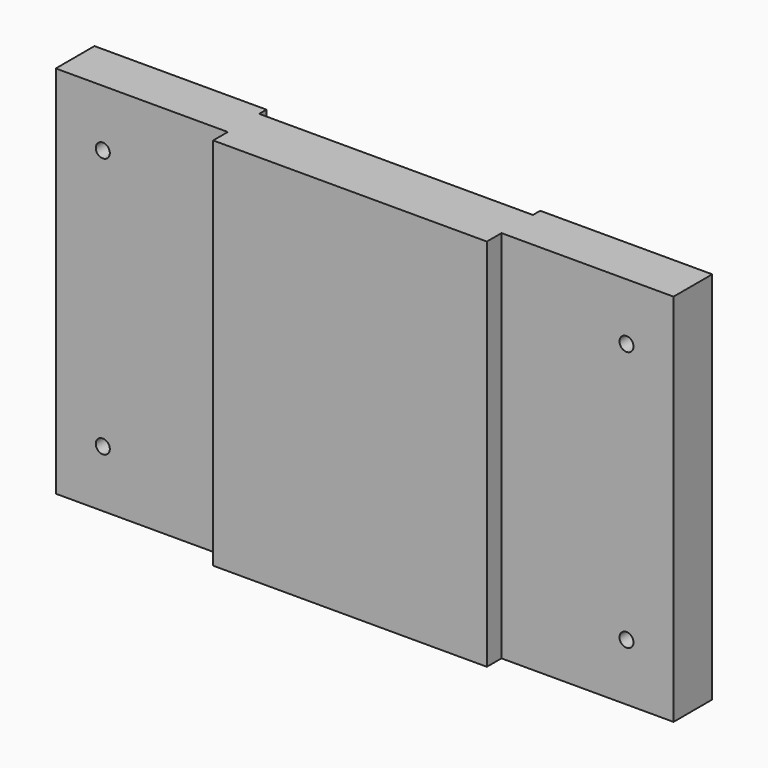
from build123d import *

# Parameters (mm, degrees)
F0_W     = 3472.434
F0_H     = 2104.39
F1_DEPTH = 272.034
F2_W     = 1538.478
F2_H     = 2104.39
F3_DEPTH = 102.87
F4_W     = 1538.478
F4_H     = 51.308
F5_DEPTH = 2104.391
F6_R     = 39.37
F7_DEPTH = 272.035


with BuildPart() as f1:
    # F0 (on Front) → F1 (new body)
    with BuildSketch(Plane.XZ):
        with Locations((15.690273, 116.796543)):
            Rectangle(F0_W, F0_H)
    extrude(amount=F1_DEPTH)

    # F2 (on face) → F3 (join)
    with BuildSketch(Plane.XZ.offset(272.034)):
        with Locations((15.690273, 116.796543)):
            Rectangle(F2_W, F2_H)
    extrude(amount=F3_DEPTH)

    # F4 (on face) → F5 (cut, through all)
    with BuildSketch(Plane.XY.offset(1168.991543)):
        with Locations((15.690273, -25.654)):
            Rectangle(F4_W, F4_H)
    extrude(amount=-F5_DEPTH, mode=Mode.SUBTRACT)

    # F6 (on face) → F7 (cut, through all)
    with BuildSketch(Plane.XZ.offset(272.034)):
        with Locations((-1456.112727, 848.951543)):
            Circle(F6_R)
        with Locations((-1456.112727, -615.358457)):
            Circle(F6_R)
        with Locations((1487.493273, 848.951543)):
            Circle(F6_R)
        with Locations((1487.493273, -615.358457)):
            Circle(F6_R)
    extrude(amount=-F7_DEPTH, mode=Mode.SUBTRACT)


solid = f1.part
